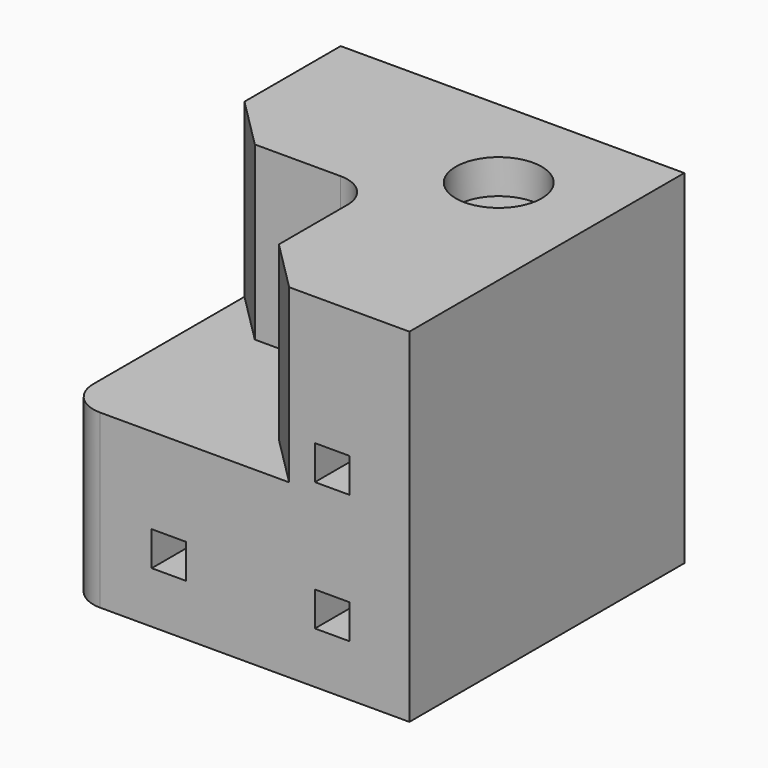
from build123d import *

# Parameters (mm, degrees)
F1_DEPTH = 100
F3_DEPTH = 50
F4_R     = 12.5
F5_DEPTH = 10
F6_W     = 10
F6_H     = 10
F7_DEPTH = 100.001


with BuildPart() as f1:
    # F0 (on Top) → F1 (new body)
    with BuildSketch(Plane.XY):
        with BuildLine():
            Line((100, 0), (0, 0))
            Line((0, 0), (0, -90))
            ThreePointArc((0, -90), (2.928932, -97.071068), (10, -100))
            Line((10, -100), (100, -100))
            Line((100, -100), (100, 0))
        make_face()
    extrude(amount=F1_DEPTH)

    # F2 (on face) → F3 (cut)
    with BuildSketch(Plane.XY.offset(100)):
        with BuildLine():
            Line((15, -50), (0, -35))
            Line((0, -35), (0, -90))
            ThreePointArc((0, -90), (2.928932, -97.071068), (10, -100))
            Line((10, -100), (65, -100))
            Line((65, -100), (50, -85))
            Line((50, -85), (50, -60))
            ThreePointArc((50, -60), (47.071068, -52.928932), (40, -50))
            Line((40, -50), (15, -50))
        make_face()
    extrude(amount=-F3_DEPTH, mode=Mode.SUBTRACT)

    # F4 (on face) → F5 (cut)
    with BuildSketch(Plane.XY.offset(100)):
        with Locations((70, -30)):
            Circle(F4_R)
    extrude(amount=-F5_DEPTH, mode=Mode.SUBTRACT)

    # F6 (on face) → F7 (cut, through all)
    with BuildSketch(Plane.XZ.offset(100)):
        with Locations((30, 20)):
            Rectangle(F6_W, F6_H)
        with Locations((77.5, 20)):
            Rectangle(F6_W, F6_H)
        with Locations((77.5, 57.5)):
            Rectangle(F6_W, F6_H)
    extrude(amount=-F7_DEPTH, mode=Mode.SUBTRACT)


solid = f1.part
